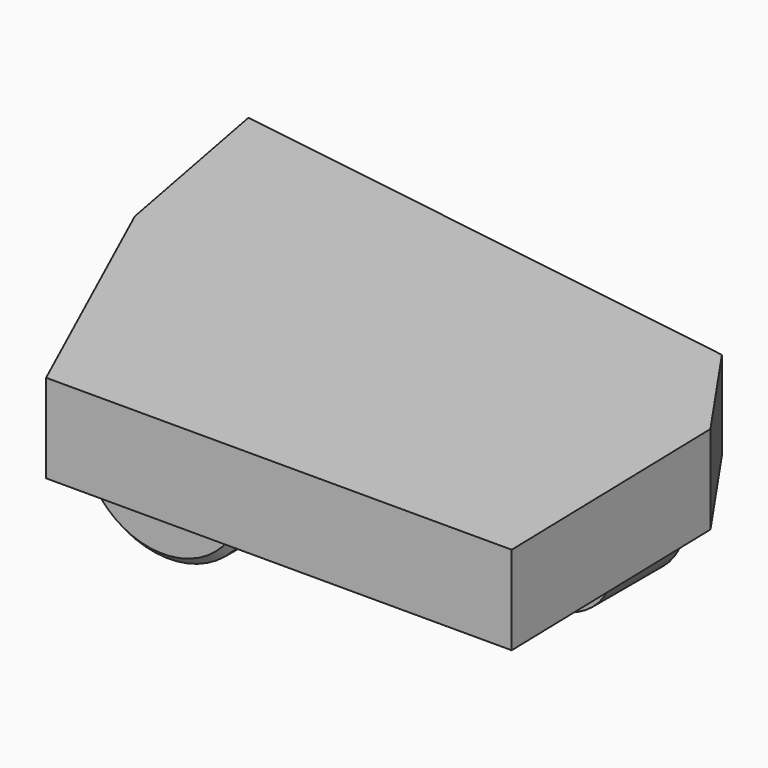
from build123d import *

# Parameters (mm, degrees)
F0_R     = 10
F1_DEPTH = 25
F2_DEPTH = 50
F3_SIZE  = 2
F5_DEPTH = 25


with BuildPart() as f1:
    # F0 (on Front) → F1 (new body)
    with BuildSketch(Plane.XZ):
        with BuildLine():
            ThreePointArc((2.083333, -24.913043), (18.399502, -16.92508), (25, 0))
            ThreePointArc((25, 0), (18.399502, 16.92508), (2.083333, 24.913043))
            ThreePointArc((2.083333, 24.913043), (-25, 0), (2.083333, -24.913043))
        make_face()
        Circle(F0_R, mode=Mode.SUBTRACT)
        with BuildLine():
            ThreePointArc((2.083333, 24.913043), (18.399502, 16.92508), (25, 0))
            ThreePointArc((25, 0), (18.399502, -16.92508), (2.083333, -24.913043))
            Line((2.083333, -24.913043), (91.458333, -17.43913))
            ThreePointArc((91.458333, -17.43913), (72.5, 0), (91.458333, 17.43913))
            Line((91.458333, 17.43913), (2.083333, 24.913043))
        make_face()
        with BuildLine():
            ThreePointArc((107.5, 0), (102.879651, 11.847556), (91.458333, 17.43913))
            ThreePointArc((91.458333, 17.43913), (72.5, 0), (91.458333, -17.43913))
            ThreePointArc((91.458333, -17.43913), (102.879651, -11.847556), (107.5, 0))
        make_face()
        with Locations((90, 0)):
            Circle(F0_R, mode=Mode.SUBTRACT)
    extrude(amount=F1_DEPTH)

    # F0 (on Front) → F2 (join)
    with BuildSketch(Plane.XZ):
        with BuildLine():
            ThreePointArc((2.083333, -24.913043), (18.399502, -16.92508), (25, 0))
            ThreePointArc((25, 0), (18.399502, 16.92508), (2.083333, 24.913043))
            ThreePointArc((2.083333, 24.913043), (-25, 0), (2.083333, -24.913043))
        make_face()
        Circle(F0_R, mode=Mode.SUBTRACT)
    extrude(amount=F2_DEPTH)

    # F3
    f3_edges = [f1.edges().sort_by_distance(p)[0] for p in [
        (-2.083333, -50, 24.913043),
        (-10, -50, 0),
        (80, -25, 0),
    ]]
    chamfer(f3_edges, length=F3_SIZE)

    # F4 (on Top) → F5 (join)
    with BuildSketch(Plane.XY):
        Polygon((116.36319, -72.40244), (114.546522, 0), (94.42164, 29.210314), (-57.820518, 52.423224), (-47.972556, 0), (-15.099764, -72.40244), align=None)
    extrude(amount=F5_DEPTH)


solid = f1.part
